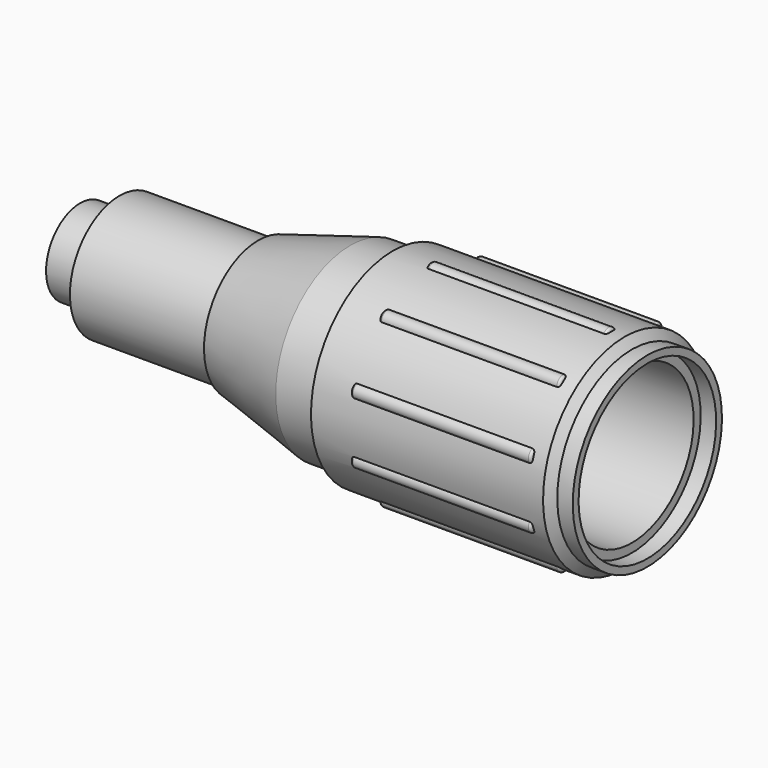
from build123d import *

# Parameters (mm, degrees)
F3_R     = 1.4
F4_DEPTH = 35
F5_R     = 0.5


with BuildPart() as f1:
    # F0 (on Front) → F1 (revolve)
    with BuildSketch(Plane.XZ):
        Polygon((0, 8.25), (0, 5.321948), (10.327642, 5.321948), (10.327642, 9.963176), (34.542438, 9.963176), (51.211245, 14.95721), (107, 14.95721), (107, 16.671492), (110, 16.671492), (110, 18.08141), (107, 18.08141), (105.622629, 19.810726), (60.622629, 19.810726), (60.622629, 18.08141), (52.397064, 18.08141), (34.542438, 13.142064), (34.542438, 12), (17.472045, 12), (7.631464, 12), (7.631464, 8.25), align=None)
    revolve(axis=Axis((72.581306, 0, 0), (1, 0, 0)))

    # F3 (on offset) → F4 (join)
    with BuildSketch(Plane.YZ.offset(68)):
        with Locations((0, 19)):
            Circle(F3_R)
        with Locations((-11.16792, 15.371323)):
            Circle(F3_R)
        with Locations((-18.070074, 5.871323)):
            Circle(F3_R)
        with Locations((-18.070074, -5.871323)):
            Circle(F3_R)
        with Locations((-11.16792, -15.371323)):
            Circle(F3_R)
        with Locations((0, -19)):
            Circle(F3_R)
        with Locations((11.16792, -15.371323)):
            Circle(F3_R)
        with Locations((18.070074, -5.871323)):
            Circle(F3_R)
        with Locations((18.070074, 5.871323)):
            Circle(F3_R)
        with Locations((11.16792, 15.371323)):
            Circle(F3_R)
    extrude(amount=F4_DEPTH)

    # F5
    f5_edges = [f1.edges().sort_by_distance(p)[0] for p in [
        (103, 0, 20.4),
        (103, 11.990819, 16.503947),
        (103, -11.990819, 16.503947),
        (103, -19.401553, 6.303947),
        (103, -19.401553, -6.303947),
        (103, -11.990819, -16.503947),
        (103, 0, -20.4),
        (103, 11.990819, -16.503947),
        (103, 19.401553, -6.303947),
        (103, 19.401553, 6.303947),
        (68, 11.990819, 16.503947),
        (68, 19.401553, 6.303947),
        (68, 19.401553, -6.303947),
        (68, 11.990819, -16.503947),
        (68, 0, -20.4),
        (68, -11.990819, -16.503947),
        (68, -19.401553, -6.303947),
        (68, 0, 20.4),
        (68, -11.990819, 16.503947),
        (68, -19.401553, 6.303947),
    ]]
    fillet(f5_edges, radius=F5_R)


solid = f1.part
